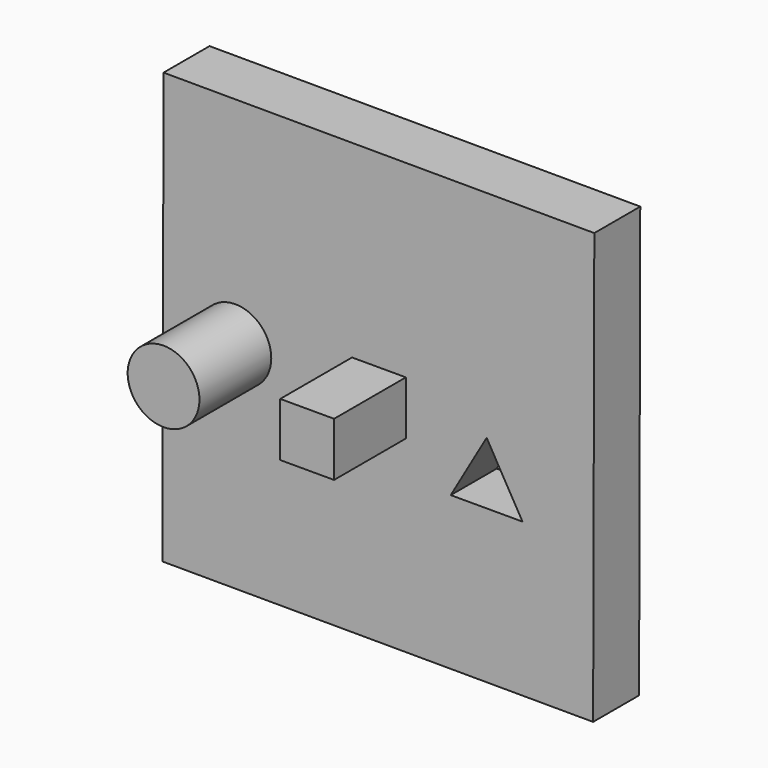
from build123d import *

# Parameters (mm, degrees)
F0_R     = 12.7
F0_W     = 19.05
F0_H     = 19.05
F1_DEPTH = 20.32
F2_DEPTH = 52.07


with BuildPart() as f1:
    # F0 (on Front) → F1 (new body)
    with BuildSketch(Plane.XZ):
        Polygon((-108.370891, -75.832161), (44.028527, -76.253634), (44.45, 76.145783), (-107.949417, 76.567256), align=None)
        with Locations((-82.55, 0)):
            Circle(F0_R, mode=Mode.SUBTRACT)
        with Locations((-31.75, 0)):
            Rectangle(F0_W, F0_H, mode=Mode.SUBTRACT)
        Polygon((-6.35, -21.997045), (6.35, 0), (19.05, -21.997045), align=None, mode=Mode.SUBTRACT)
    extrude(amount=F1_DEPTH)


with BuildPart() as f2:
    # F0 (on Front) → F2 (new body)
    with BuildSketch(Plane.XZ):
        with Locations((-82.55, 0)):
            Circle(F0_R)
        with Locations((-31.75, 0)):
            Rectangle(F0_W, F0_H)
    extrude(amount=F2_DEPTH)


solid = Compound([f1.part, f2.part])
